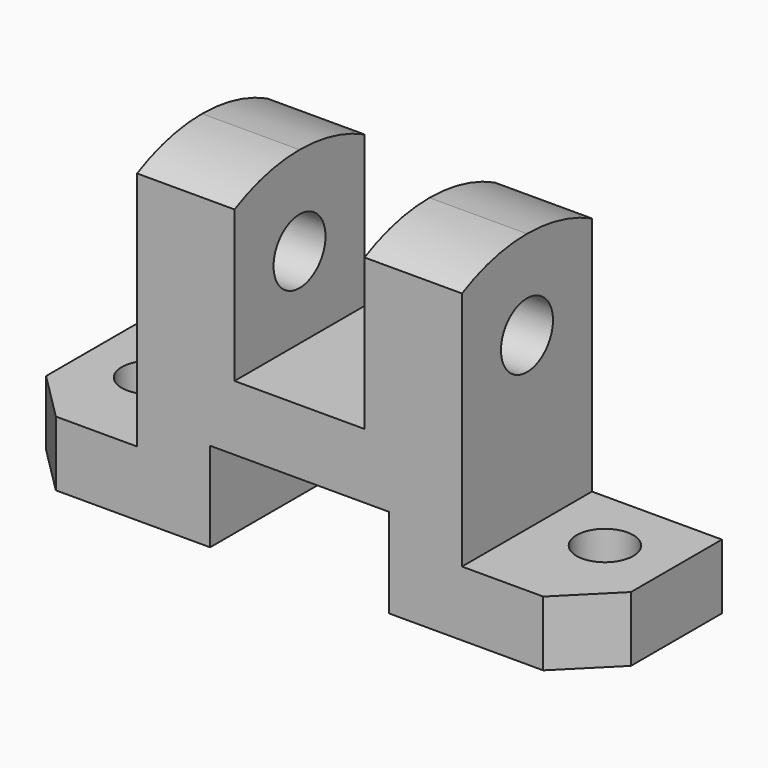
from build123d import *

# Parameters (mm, degrees)
F0_W     = 114.3
F0_H     = 31.75
F1_DEPTH = 63.5
F2_W     = 25.4
F2_H     = 50.8
F2_H_2   = 33.3248
F2_W_2   = 34.925
F2_H_3   = 17.4752
F3_DEPTH = 31.751
F4_R     = 6.35
F5_DEPTH = 88.901
F6_R     = 5.5372
F7_DEPTH = 12.701
F9_DEPTH = 88.901
F10_SIZE = 9.525


with BuildPart() as f1:
    # F0 (on Top) → F1 (new body)
    with BuildSketch(Plane.XY):
        with Locations((44.4766530171, -5.4535213858)):
            Rectangle(F0_W, F0_H)
    extrude(amount=F1_DEPTH)

    # F2 (on face) → F3 (cut, through all)
    with BuildSketch(Plane.XZ.offset(21.3285213858)):
        with Locations((0.0266530171, 38.1)):
            Rectangle(F2_W, F2_H)
        with Locations((44.4766530171, 46.8376)):
            Rectangle(F2_W, F2_H_2)
        with Locations((88.9266530171, 38.1)):
            Rectangle(F2_W, F2_H)
        with Locations((44.4639530171, 8.7376)):
            Rectangle(F2_W_2, F2_H_3)
    extrude(amount=-F3_DEPTH, mode=Mode.SUBTRACT)

    # F4 (on face) → F5 (cut, through all)
    with BuildSketch(Plane.YZ.offset(76.2266530171)):
        with Locations((-5.4535213858, 46.0502)):
            Circle(F4_R)
    extrude(amount=-F5_DEPTH, mode=Mode.SUBTRACT)

    # F6 (on face) → F7 (cut, through all)
    with BuildSketch(Plane.XY.offset(12.7)):
        with Locations((0.0266530171, -2.2785213858)):
            Circle(F6_R)
        with Locations((88.9266530171, -2.2785213858)):
            Circle(F6_R)
    extrude(amount=-F7_DEPTH, mode=Mode.SUBTRACT)

    # F8 (on face) → F9 (cut, through all)
    with BuildSketch(Plane.YZ.offset(76.2266530171)):
        with BuildLine():
            Line((-21.3285213858, 63.5), (-21.3285213858, 59.6835197333))
            ThreePointArc((-21.3285213858, 59.6835197333), (-13.6171777345, 62.5324784108), (-5.4535211745, 63.5))
            Line((-5.4535211745, 63.5), (-21.3285213858, 63.5))
        make_face()
        with BuildLine():
            ThreePointArc((-5.4535211745, 63.5), (2.7101351683, 62.5324783614), (10.4214786142, 59.6835197333))
            Line((10.4214786142, 59.6835197333), (10.4214786142, 63.5))
            Line((10.4214786142, 63.5), (-5.4535211745, 63.5))
        make_face()
    extrude(amount=-F9_DEPTH, mode=Mode.SUBTRACT)

    # F10
    f10_edges = [f1.edges().sort_by_distance(p)[0] for p in [
        (101.626653, -21.328521, 6.35),
        (-12.673347, -21.328521, 6.35),
    ]]
    chamfer(f10_edges, length=F10_SIZE)


solid = f1.part
